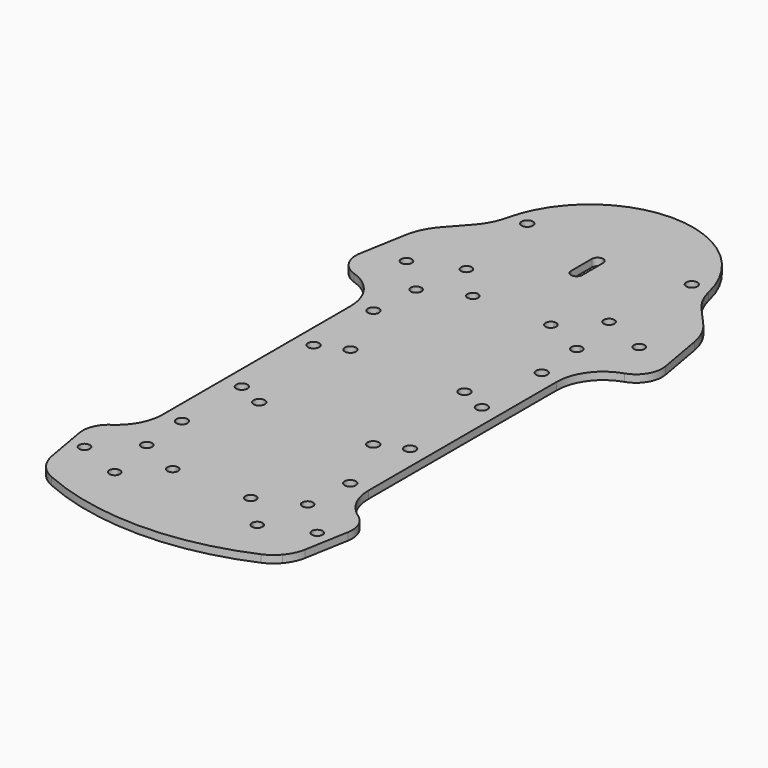
from build123d import *

# Parameters (mm, degrees)
F0_R     = 1.5
F0_R_2   = 1.425
F1_DEPTH = 2


with BuildPart() as f1:
    # F0 (on Top) → F1 (new body)
    with BuildSketch(Plane.XY):
        with BuildLine():
            Line((-8.8704294452, 161.8253589038), (-8.8704294452, 175.1948396463))
            Line((-8.8704294452, 175.1948396463), (-34.8704294452, 175.1948396463))
            Line((-34.8704294452, 175.1948396463), (-34.8704294452, 168.1948396463))
            ThreePointArc((-34.8704294452, 168.1948396463), (-35.3097692734, 167.1341794745), (-36.3704294452, 166.6948396463))
            ThreePointArc((-36.3704294452, 166.6948396463), (-37.431089617, 167.1341794745), (-37.8704294452, 168.1948396463))
            Line((-37.8704294452, 168.1948396463), (-37.8704294452, 175.1948396463))
            Line((-37.8704294452, 175.1948396463), (-63.8704294452, 175.1948396463))
            Line((-63.8704294452, 175.1948396463), (-63.8704294452, 161.8253589038))
            Line((-63.8704294452, 161.8253589038), (-39.2936274412, 157.9327758734))
            Line((-39.2936274412, 157.9327758734), (-43.6348318829, 133.3125820481))
            Line((-43.6348318829, 133.3125820481), (-63.8704294452, 137.2459837579))
            Line((-63.8704294452, 137.2459837579), (-63.8704294452, 127.0922727271))
            Line((-63.8704294452, 127.0922727271), (-63.8704294452, 96.4075311041))
            Line((-63.8704294452, 96.4075311041), (-63.8704294452, 64.2705092109))
            Line((-63.8704294452, 64.2705092109), (-63.8704294452, 55.5690784503))
            Line((-63.8704294452, 55.5690784503), (-43.6348318829, 59.50248016))
            Line((-43.6348318829, 59.50248016), (-39.2936274412, 34.8822863347))
            Line((-39.2936274412, 34.8822863347), (-63.8704294452, 30.9897033044))
            Line((-63.8704294452, 30.9897033044), (-63.8704294452, 29.6202225619))
            Line((-63.8704294452, 29.6202225619), (-8.8704294452, 29.6202225619))
            Line((-8.8704294452, 29.6202225619), (-8.8704294452, 30.9897033044))
            Line((-8.8704294452, 30.9897033044), (-33.4472314492, 34.8822863347))
            Line((-33.4472314492, 34.8822863347), (-29.1060270075, 59.50248016))
            Line((-29.1060270075, 59.50248016), (-8.8704294452, 55.5690784503))
            Line((-8.8704294452, 55.5690784503), (-8.8704294452, 64.2705092153))
            Line((-8.8704294452, 64.2705092153), (-8.8704294452, 127.0922727314))
            Line((-8.8704294452, 127.0922727314), (-8.8704294452, 137.2459837579))
            Line((-8.8704294452, 137.2459837579), (-29.1060270075, 133.3125820481))
            Line((-29.1060270075, 133.3125820481), (-33.4472314492, 157.9327758734))
            Line((-33.4472314492, 157.9327758734), (-8.8704294452, 161.8253589038))
        make_face()
        with Locations((-58.8704294452, 64.4075311041)):
            Circle(F0_R, mode=Mode.SUBTRACT)
        with Locations((-58.8704294452, 84.4075311041)):
            Circle(F0_R, mode=Mode.SUBTRACT)
        with Locations((-58.8704294452, 108.4075311041)):
            Circle(F0_R, mode=Mode.SUBTRACT)
        with Locations((-13.8704294452, 64.4075311041)):
            Circle(F0_R, mode=Mode.SUBTRACT)
        with Locations((-13.8704294452, 84.4075311041)):
            Circle(F0_R, mode=Mode.SUBTRACT)
        Polygon((-54.3704294452, 78.4075311041), (-54.3704294452, 96.4075311041), (-54.3704294452, 114.4075311041), (-18.3704294452, 114.4075311041), (-18.3704294452, 78.4075311041), align=None, mode=Mode.SUBTRACT)
        with Locations((-13.8704294452, 108.4075311041)):
            Circle(F0_R, mode=Mode.SUBTRACT)
        with Locations((-58.8704294452, 128.4075311041)):
            Circle(F0_R, mode=Mode.SUBTRACT)
        with Locations((-13.8704294452, 128.4075311041)):
            Circle(F0_R, mode=Mode.SUBTRACT)
        Polygon((-54.3704294452, 114.4075311041), (-54.3704294452, 96.4075311041), (-54.3704294452, 78.4075311041), (-18.3704294452, 78.4075311041), (-18.3704294452, 114.4075311041), align=None)
        with Locations((-51.6204294452, 81.1575311041)):
            Circle(F0_R, mode=Mode.SUBTRACT)
        with Locations((-21.1204294452, 81.1575311041)):
            Circle(F0_R, mode=Mode.SUBTRACT)
        with Locations((-51.6204294452, 111.6575311041)):
            Circle(F0_R, mode=Mode.SUBTRACT)
        with Locations((-21.1204294452, 111.6575311041)):
            Circle(F0_R, mode=Mode.SUBTRACT)
        with BuildLine():
            Line((-34.8704294452, 175.1948396463), (-8.8704294452, 175.1948396463))
            Line((-8.8704294452, 175.1948396463), (-8.8704294452, 161.8253589038))
            Line((-8.8704294452, 161.8253589038), (0.9368019551, 163.3786717603))
            ThreePointArc((0.9368019551, 163.3786717603), (-0.061460225, 165.0881544878), (-1.2761446038, 166.6512924971))
            Line((-1.2761446038, 166.6512924971), (-5.9962666248, 171.9614152906))
            ThreePointArc((-5.9962666248, 171.9614152906), (-8.1314997997, 175.0803787876), (-9.4192596721, 178.6340850949))
            ThreePointArc((-9.4192596721, 178.6340850949), (-36.3704294452, 200.1948396463), (-63.3215992183, 178.6340850949))
            ThreePointArc((-63.3215992183, 178.6340850949), (-64.6093590907, 175.0803787876), (-66.7445922656, 171.9614152906))
            Line((-66.7445922656, 171.9614152906), (-71.4647142866, 166.6512924971))
            ThreePointArc((-71.4647142866, 166.6512924971), (-72.6793986653, 165.0881544878), (-73.6776608454, 163.3786717603))
            Line((-73.6776608454, 163.3786717603), (-63.8704294452, 161.8253589038))
            Line((-63.8704294452, 161.8253589038), (-63.8704294452, 175.1948396463))
            Line((-63.8704294452, 175.1948396463), (-37.8704294452, 175.1948396463))
            ThreePointArc((-37.8704294452, 175.1948396463), (-36.3704294452, 176.6948396463), (-34.8704294452, 175.1948396463))
        make_face()
        with Locations((-58.3704294452, 179.1948396463)):
            Circle(F0_R, mode=Mode.SUBTRACT)
        with Locations((-14.3704294452, 179.1948396463)):
            Circle(F0_R, mode=Mode.SUBTRACT)
        Polygon((-39.2936274412, 157.9327758734), (-63.8704294452, 161.8253589038), (-63.8704294452, 149.5734792715), (-63.8704294452, 137.2459837579), (-43.6348318829, 133.3125820481), align=None)
        with BuildLine():
            Line((-57.622980792, 142.8108821521), (-56.6548922015, 148.3011853752))
            Line((-56.6548922015, 148.3011853752), (-55.686803611, 153.7914885982))
            ThreePointArc((-55.686803611, 153.7914885982), (-56.3553273017, 156.2864529777), (-54.0143549579, 155.1948396463))
            ThreePointArc((-54.0143549579, 155.1948396463), (-54.0197775131, 155.0706427128), (-54.0360039098, 154.9473909931))
            Line((-54.0360039098, 154.9473909931), (-46.9946284758, 153.7058065228))
            ThreePointArc((-46.9946284758, 153.7058065228), (-45.4670804943, 154.8779353144), (-44.1662774277, 153.4583578696))
            ThreePointArc((-44.1662774277, 153.4583578696), (-44.6753050839, 152.3667445381), (-45.8387260809, 152.0550068215))
            Line((-45.8387260809, 152.0550068215), (-46.5593660182, 147.9680546465))
            ThreePointArc((-46.5593660182, 147.9680546465), (-45.71520134, 147.4806759423), (-45.3818146714, 146.5647035985))
            ThreePointArc((-45.3818146714, 146.5647035985), (-45.8908423276, 145.4730902671), (-47.0542633246, 145.1613525505))
            Line((-47.0542633246, 145.1613525505), (-47.7749032619, 141.0744003755))
            ThreePointArc((-47.7749032619, 141.0744003755), (-46.9307385836, 140.5870216712), (-46.5973519151, 139.6710493274))
            ThreePointArc((-46.5973519151, 139.6710493274), (-48.1465488485, 138.2514718826), (-49.4257029631, 139.9184979806))
            Line((-49.4257029631, 139.9184979806), (-56.4670783971, 141.1600824509))
            ThreePointArc((-56.4670783971, 141.1600824509), (-59.0377211083, 140.5901846823), (-57.622980792, 142.8108821521))
        make_face(mode=Mode.SUBTRACT)
        Polygon((-8.8704294452, 137.2459837579), (-8.8704294452, 161.8253589038), (-33.4472314492, 157.9327758734), (-29.1060270075, 133.3125820481), align=None)
        with BuildLine():
            ThreePointArc((-26.9021328095, 152.0550068215), (-28.3168731258, 154.2757042914), (-25.7462304146, 153.7058065228))
            Line((-25.7462304146, 153.7058065228), (-18.7048549806, 154.9473909931))
            ThreePointArc((-18.7048549806, 154.9473909931), (-17.4257008659, 156.614417091), (-15.8765039325, 155.1948396463))
            ThreePointArc((-15.8765039325, 155.1948396463), (-16.2098906011, 154.2788673025), (-17.0540552794, 153.7914885982))
            Line((-17.0540552794, 153.7914885982), (-15.1178780984, 142.8108821521))
            ThreePointArc((-15.1178780984, 142.8108821521), (-13.9544571014, 142.4991444355), (-13.4454294452, 141.4075311041))
            ThreePointArc((-13.4454294452, 141.4075311041), (-14.7462325118, 139.9879536593), (-16.2737804932, 141.1600824509))
            Line((-16.2737804932, 141.1600824509), (-23.3151559273, 139.9184979806))
            ThreePointArc((-23.3151559273, 139.9184979806), (-23.2989295305, 139.7952462608), (-23.2935069753, 139.6710493274))
            ThreePointArc((-23.2935069753, 139.6710493274), (-25.6344793191, 138.579435996), (-24.9659556285, 141.0744003755))
            Line((-24.9659556285, 141.0744003755), (-25.6865955658, 145.1613525505))
            ThreePointArc((-25.6865955658, 145.1613525505), (-27.337395267, 146.3172549453), (-26.1814928722, 147.9680546465))
            Line((-26.1814928722, 147.9680546465), (-26.9021328095, 152.0550068215))
        make_face(mode=Mode.SUBTRACT)
        Polygon((-8.8704294452, 30.9897033044), (-8.8704294452, 55.5690784503), (-29.1060270075, 59.50248016), (-33.4472314492, 34.8822863347), align=None)
        with BuildLine():
            ThreePointArc((-23.2935069753, 53.1440128808), (-23.2989295305, 53.0198159473), (-23.3151559273, 52.8965642276))
            Line((-23.3151559273, 52.8965642276), (-16.2737804932, 51.6549797573))
            ThreePointArc((-16.2737804932, 51.6549797573), (-14.7462325118, 52.8271085489), (-13.4454294452, 51.4075311041))
            ThreePointArc((-13.4454294452, 51.4075311041), (-13.9544571014, 50.3159177726), (-15.1178780984, 50.004180056))
            Line((-15.1178780984, 50.004180056), (-17.0540552793, 39.02357361))
            ThreePointArc((-17.0540552793, 39.02357361), (-16.2098906011, 38.5361949057), (-15.8765039325, 37.6202225619))
            ThreePointArc((-15.8765039325, 37.6202225619), (-17.4257008659, 36.2006451171), (-18.7048549806, 37.8676712151))
            Line((-18.7048549806, 37.8676712151), (-25.7462304146, 39.1092556854))
            ThreePointArc((-25.7462304146, 39.1092556854), (-28.3168731258, 38.5393579168), (-26.9021328095, 40.7600553866))
            Line((-26.9021328095, 40.7600553866), (-26.1814928722, 44.8470075616))
            ThreePointArc((-26.1814928722, 44.8470075616), (-27.337395267, 46.4978072629), (-25.6865955658, 47.6537096577))
            Line((-25.6865955658, 47.6537096577), (-24.9659556285, 51.7406618327))
            ThreePointArc((-24.9659556285, 51.7406618327), (-25.6344793191, 54.2356262122), (-23.2935069753, 53.1440128808))
        make_face(mode=Mode.SUBTRACT)
        Polygon((-63.8704294452, 55.5690784503), (-63.8704294452, 30.9897033044), (-39.2936274412, 34.8822863347), (-43.6348318829, 59.50248016), align=None)
        with BuildLine():
            ThreePointArc((-57.622980792, 50.004180056), (-59.0377211083, 52.2248775259), (-56.4670783971, 51.6549797573))
            Line((-56.4670783971, 51.6549797573), (-49.4257029631, 52.8965642276))
            ThreePointArc((-49.4257029631, 52.8965642276), (-48.1465488485, 54.5635903255), (-46.5973519151, 53.1440128808))
            ThreePointArc((-46.5973519151, 53.1440128808), (-46.9307385836, 52.228040537), (-47.7749032619, 51.7406618327))
            Line((-47.7749032619, 51.7406618327), (-47.0542633246, 47.6537096577))
            ThreePointArc((-47.0542633246, 47.6537096577), (-45.8908423276, 47.3419719411), (-45.3818146714, 46.2503586097))
            ThreePointArc((-45.3818146714, 46.2503586097), (-45.71520134, 45.3343862659), (-46.5593660182, 44.8470075616))
            Line((-46.5593660182, 44.8470075616), (-45.8387260809, 40.7600553866))
            ThreePointArc((-45.8387260809, 40.7600553866), (-44.6753050839, 40.44831767), (-44.1662774277, 39.3567043386))
            ThreePointArc((-44.1662774277, 39.3567043386), (-45.4670804943, 37.9371268938), (-46.9946284758, 39.1092556854))
            Line((-46.9946284758, 39.1092556854), (-54.0360039098, 37.8676712151))
            ThreePointArc((-54.0360039098, 37.8676712151), (-54.0197775131, 37.7444194953), (-54.0143549579, 37.6202225619))
            ThreePointArc((-54.0143549579, 37.6202225619), (-56.3553273017, 36.5286092305), (-55.686803611, 39.02357361))
            Line((-55.686803611, 39.02357361), (-57.622980792, 50.004180056))
        make_face(mode=Mode.SUBTRACT)
        with BuildLine():
            Line((-4.7892278158, 30.3433044684), (-8.8704294452, 30.9897033044))
            Line((-8.8704294452, 30.9897033044), (-8.8704294452, 29.6202225619))
            Line((-8.8704294452, 29.6202225619), (-63.8704294452, 29.6202225619))
            Line((-63.8704294452, 29.6202225619), (-63.8704294452, 30.9897033044))
            Line((-63.8704294452, 30.9897033044), (-67.9516310746, 30.3433044684))
            ThreePointArc((-67.9516310746, 30.3433044684), (-66.3173713875, 28.8317131301), (-64.3891954535, 27.7191257554))
            ThreePointArc((-64.3891954535, 27.7191257554), (-36.3704294452, 21.8669920596), (-8.3516634369, 27.7191257554))
            ThreePointArc((-8.3516634369, 27.7191257554), (-6.4234875029, 28.8317131301), (-4.7892278158, 30.3433044684))
        make_face()
        with BuildLine():
            Line((0.9368019551, 163.3786717603), (-8.8704294452, 161.8253589038))
            Line((-8.8704294452, 161.8253589038), (-8.8704294452, 137.2459837579))
            Line((-8.8704294452, 137.2459837579), (-1.0790833827, 138.7604680141))
            ThreePointArc((-1.0790833827, 138.7604680141), (-0.6587086155, 138.855699248), (-0.2449918809, 138.9766223488))
            ThreePointArc((-0.2449918809, 138.9766223488), (3.5872210074, 142.0295829289), (4.4789079207, 146.8473955419))
            Line((4.4789079207, 146.8473955419), (2.2848454049, 159.2905423993))
            ThreePointArc((2.2848454049, 159.2905423993), (1.7582361533, 161.3832157224), (0.9368019551, 163.3786717603))
        make_face()
        with Locations((-5.2530814057, 150.2113153295)):
            Circle(F0_R_2, mode=Mode.SUBTRACT)
        with BuildLine():
            Line((0.9368019551, 163.3786717603), (-8.8704294452, 161.8253589038))
            Line((-8.8704294452, 161.8253589038), (-8.8704294452, 137.2459837579))
            Line((-8.8704294452, 137.2459837579), (-1.0790833827, 138.7604680141))
            ThreePointArc((-1.0790833827, 138.7604680141), (-0.6587086155, 138.855699248), (-0.2449918809, 138.9766223488))
            ThreePointArc((-0.2449918809, 138.9766223488), (3.5872210074, 142.0295829289), (4.4789079207, 146.8473955419))
            Line((4.4789079207, 146.8473955419), (2.2848454049, 159.2905423993))
            ThreePointArc((2.2848454049, 159.2905423993), (1.7582361533, 161.3832157224), (0.9368019551, 163.3786717603))
        make_face()
        with Locations((-5.2530814057, 150.2113153295)):
            Circle(F0_R_2, mode=Mode.SUBTRACT)
        with BuildLine():
            Line((-63.8704294452, 149.5734792715), (-63.8704294452, 161.8253589038))
            Line((-63.8704294452, 161.8253589038), (-73.6776608454, 163.3786717603))
            ThreePointArc((-73.6776608454, 163.3786717603), (-74.4990950437, 161.3832157224), (-75.0257042953, 159.2905423993))
            Line((-75.0257042953, 159.2905423993), (-77.2197668111, 146.8473955419))
            ThreePointArc((-77.2197668111, 146.8473955419), (-76.3280798978, 142.0295829289), (-72.4958670095, 138.9766223488))
            ThreePointArc((-72.4958670095, 138.9766223488), (-72.0821502749, 138.855699248), (-71.6617755077, 138.7604680141))
            Line((-71.6617755077, 138.7604680141), (-63.8704294452, 137.2459837579))
            Line((-63.8704294452, 137.2459837579), (-63.8704294452, 149.5734792715))
        make_face()
        with BuildLine():
            ThreePointArc((-66.0627774847, 150.2113153295), (-66.0682000399, 150.0871183961), (-66.0844264366, 149.9638666763))
            ThreePointArc((-66.0844264366, 149.9638666763), (-68.9073549294, 150.3355122629), (-66.0627774847, 150.2113153295))
        make_face(mode=Mode.SUBTRACT)
        with BuildLine():
            Line((-63.8704294452, 149.5734792715), (-63.8704294452, 161.8253589038))
            Line((-63.8704294452, 161.8253589038), (-73.6776608454, 163.3786717603))
            ThreePointArc((-73.6776608454, 163.3786717603), (-74.4990950437, 161.3832157224), (-75.0257042953, 159.2905423993))
            Line((-75.0257042953, 159.2905423993), (-77.2197668111, 146.8473955419))
            ThreePointArc((-77.2197668111, 146.8473955419), (-76.3280798978, 142.0295829289), (-72.4958670095, 138.9766223488))
            ThreePointArc((-72.4958670095, 138.9766223488), (-72.0821502749, 138.855699248), (-71.6617755077, 138.7604680141))
            Line((-71.6617755077, 138.7604680141), (-63.8704294452, 137.2459837579))
            Line((-63.8704294452, 137.2459837579), (-63.8704294452, 149.5734792715))
        make_face()
        with BuildLine():
            ThreePointArc((-66.0627774847, 150.2113153295), (-66.0682000399, 150.0871183961), (-66.0844264366, 149.9638666763))
            ThreePointArc((-66.0844264366, 149.9638666763), (-68.9073549294, 150.3355122629), (-66.0627774847, 150.2113153295))
        make_face(mode=Mode.SUBTRACT)
        with BuildLine():
            Line((-5.9879669467, 55.0087844988), (-8.8704294452, 55.5690784503))
            Line((-8.8704294452, 55.5690784503), (-8.8704294452, 30.9897033044))
            Line((-8.8704294452, 30.9897033044), (-4.7892278158, 30.3433044684))
            ThreePointArc((-4.7892278158, 30.3433044684), (-3.3225779593, 32.5904155591), (-2.5062667651, 35.1466248793))
            Line((-2.5062667651, 35.1466248793), (-0.4299756432, 46.921856971))
            ThreePointArc((-0.4299756432, 46.921856971), (-0.8759591868, 50.8627459699), (-3.3917118033, 53.9287688328))
            ThreePointArc((-3.3917118033, 53.9287688328), (-4.6350501657, 54.6004847242), (-5.9879669467, 55.0087844988))
        make_face()
        with Locations((-5.2530814057, 42.6037468787)):
            Circle(F0_R_2, mode=Mode.SUBTRACT)
        with BuildLine():
            Line((-67.9516310746, 30.3433044684), (-63.8704294452, 30.9897033044))
            Line((-63.8704294452, 30.9897033044), (-63.8704294452, 55.5690784503))
            Line((-63.8704294452, 55.5690784503), (-66.7528919437, 55.0087844988))
            ThreePointArc((-66.7528919437, 55.0087844988), (-68.1058087247, 54.6004847242), (-69.3491470871, 53.9287688328))
            ThreePointArc((-69.3491470871, 53.9287688328), (-71.8648997035, 50.8627459699), (-72.3108832471, 46.921856971))
            Line((-72.3108832471, 46.921856971), (-70.2345921253, 35.1466248793))
            ThreePointArc((-70.2345921253, 35.1466248793), (-69.418280931, 32.5904155591), (-67.9516310746, 30.3433044684))
        make_face()
        with Locations((-67.4877774847, 42.6037468787)):
            Circle(F0_R_2, mode=Mode.SUBTRACT)
        with BuildLine():
            Line((-55.686803611, 153.7914885982), (-56.6548922015, 148.3011853752))
            Line((-56.6548922015, 148.3011853752), (-57.622980792, 142.8108821521))
            ThreePointArc((-57.622980792, 142.8108821521), (-56.7788161137, 142.3235034479), (-56.4454294452, 141.4075311041))
            ThreePointArc((-56.4454294452, 141.4075311041), (-56.4508520004, 141.2833341707), (-56.4670783971, 141.1600824509))
            Line((-56.4670783971, 141.1600824509), (-49.4257029631, 139.9184979806))
            ThreePointArc((-49.4257029631, 139.9184979806), (-48.8396983369, 140.8383409905), (-47.7749032619, 141.0744003755))
            Line((-47.7749032619, 141.0744003755), (-47.0542633246, 145.1613525505))
            ThreePointArc((-47.0542633246, 145.1613525505), (-48.2101657194, 146.8121522517), (-46.5593660182, 147.9680546465))
            Line((-46.5593660182, 147.9680546465), (-45.8387260809, 152.0550068215))
            ThreePointArc((-45.8387260809, 152.0550068215), (-46.7585690908, 152.6410114478), (-46.9946284758, 153.7058065228))
            Line((-46.9946284758, 153.7058065228), (-54.0360039098, 154.9473909931))
            ThreePointArc((-54.0360039098, 154.9473909931), (-54.6220085361, 154.0275479831), (-55.686803611, 153.7914885982))
        make_face()
        with BuildLine():
            Line((-18.7048549806, 154.9473909931), (-25.7462304146, 153.7058065228))
            ThreePointArc((-25.7462304146, 153.7058065228), (-25.7300040179, 153.582554803), (-25.7245814626, 153.4583578696))
            ThreePointArc((-25.7245814626, 153.4583578696), (-26.0579681312, 152.5423855258), (-26.9021328095, 152.0550068215))
            Line((-26.9021328095, 152.0550068215), (-26.1814928722, 147.9680546465))
            ThreePointArc((-26.1814928722, 147.9680546465), (-25.0180718752, 147.6563169299), (-24.509044219, 146.5647035985))
            ThreePointArc((-24.509044219, 146.5647035985), (-24.8424308875, 145.6487312547), (-25.6865955658, 145.1613525505))
            Line((-25.6865955658, 145.1613525505), (-24.9659556285, 141.0744003755))
            ThreePointArc((-24.9659556285, 141.0744003755), (-23.9011605535, 140.8383409905), (-23.3151559273, 139.9184979806))
            Line((-23.3151559273, 139.9184979806), (-16.2737804932, 141.1600824509))
            ThreePointArc((-16.2737804932, 141.1600824509), (-16.0377211083, 142.2248775259), (-15.1178780984, 142.8108821521))
            Line((-15.1178780984, 142.8108821521), (-17.0540552794, 153.7914885982))
            ThreePointArc((-17.0540552794, 153.7914885982), (-18.1188503543, 154.0275479831), (-18.7048549806, 154.9473909931))
        make_face()
        with BuildLine():
            Line((-49.4257029631, 52.8965642276), (-56.4670783971, 51.6549797573))
            ThreePointArc((-56.4670783971, 51.6549797573), (-56.4508520004, 51.5317280375), (-56.4454294452, 51.4075311041))
            ThreePointArc((-56.4454294452, 51.4075311041), (-56.7788161137, 50.4915587603), (-57.622980792, 50.004180056))
            Line((-57.622980792, 50.004180056), (-55.686803611, 39.02357361))
            ThreePointArc((-55.686803611, 39.02357361), (-54.6220085361, 38.787514225), (-54.0360039098, 37.8676712151))
            Line((-54.0360039098, 37.8676712151), (-46.9946284758, 39.1092556854))
            ThreePointArc((-46.9946284758, 39.1092556854), (-46.7585690908, 40.1740507604), (-45.8387260809, 40.7600553866))
            Line((-45.8387260809, 40.7600553866), (-46.5593660182, 44.8470075616))
            ThreePointArc((-46.5593660182, 44.8470075616), (-48.2101657194, 46.0029099565), (-47.0542633246, 47.6537096577))
            Line((-47.0542633246, 47.6537096577), (-47.7749032619, 51.7406618327))
            ThreePointArc((-47.7749032619, 51.7406618327), (-48.8396983369, 51.9767212176), (-49.4257029631, 52.8965642276))
        make_face()
        with BuildLine():
            Line((-16.2737804932, 51.6549797573), (-23.3151559273, 52.8965642276))
            ThreePointArc((-23.3151559273, 52.8965642276), (-23.9011605535, 51.9767212176), (-24.9659556285, 51.7406618327))
            Line((-24.9659556285, 51.7406618327), (-25.6865955658, 47.6537096577))
            ThreePointArc((-25.6865955658, 47.6537096577), (-24.8424308875, 47.1663309535), (-24.509044219, 46.2503586097))
            ThreePointArc((-24.509044219, 46.2503586097), (-25.0180718752, 45.1587452782), (-26.1814928722, 44.8470075616))
            Line((-26.1814928722, 44.8470075616), (-26.9021328095, 40.7600553866))
            ThreePointArc((-26.9021328095, 40.7600553866), (-26.0579681312, 40.2726766824), (-25.7245814626, 39.3567043386))
            ThreePointArc((-25.7245814626, 39.3567043386), (-25.7300040179, 39.2325074052), (-25.7462304146, 39.1092556854))
            Line((-25.7462304146, 39.1092556854), (-18.7048549806, 37.8676712151))
            ThreePointArc((-18.7048549806, 37.8676712151), (-18.1188503543, 38.787514225), (-17.0540552793, 39.02357361))
            Line((-17.0540552793, 39.02357361), (-15.1178780984, 50.004180056))
            ThreePointArc((-15.1178780984, 50.004180056), (-16.0377211083, 50.5901846823), (-16.2737804932, 51.6549797573))
        make_face()
        with BuildLine():
            Line((-1.0790833827, 138.7604680141), (-8.8704294452, 137.2459837579))
            Line((-8.8704294452, 137.2459837579), (-8.8704294452, 127.0922727314))
            ThreePointArc((-8.8704294452, 127.0922727314), (-6.4868030641, 134.434546544), (-0.2449918809, 138.9766223488))
            ThreePointArc((-0.2449918809, 138.9766223488), (-0.6587086155, 138.855699248), (-1.0790833827, 138.7604680141))
        make_face()
        with BuildLine():
            Line((-63.8704294452, 127.0922727271), (-63.8704294452, 137.2459837579))
            Line((-63.8704294452, 137.2459837579), (-71.6617755077, 138.7604680141))
            ThreePointArc((-71.6617755077, 138.7604680141), (-72.0821502749, 138.855699248), (-72.4958670095, 138.9766223488))
            ThreePointArc((-72.4958670095, 138.9766223488), (-66.254055825, 134.4345465422), (-63.8704294452, 127.0922727271))
        make_face()
        with BuildLine():
            ThreePointArc((-3.3917118033, 53.9287688328), (-7.4161532676, 58.4188440428), (-8.8704294452, 64.2705092153))
            Line((-8.8704294452, 64.2705092153), (-8.8704294452, 55.5690784503))
            Line((-8.8704294452, 55.5690784503), (-5.9879669467, 55.0087844988))
            ThreePointArc((-5.9879669467, 55.0087844988), (-4.6350501657, 54.6004847242), (-3.3917118033, 53.9287688328))
        make_face()
        with BuildLine():
            Line((-63.8704294452, 55.5690784503), (-63.8704294452, 64.2705092109))
            ThreePointArc((-63.8704294452, 64.2705092109), (-65.3247056238, 58.4188440409), (-69.3491470871, 53.9287688328))
            ThreePointArc((-69.3491470871, 53.9287688328), (-68.1058087247, 54.6004847242), (-66.7528919437, 55.0087844988))
            Line((-66.7528919437, 55.0087844988), (-63.8704294452, 55.5690784503))
        make_face()
        with BuildLine():
            ThreePointArc((-44.1662774277, 153.4583578696), (-45.4670804943, 154.8779353144), (-46.9946284758, 153.7058065228))
            Line((-46.9946284758, 153.7058065228), (-45.5912774277, 153.4583578696))
            Line((-45.5912774277, 153.4583578696), (-45.8387260809, 152.0550068215))
            ThreePointArc((-45.8387260809, 152.0550068215), (-44.6753050839, 152.3667445381), (-44.1662774277, 153.4583578696))
        make_face()
        with BuildLine():
            Line((-48.0223519151, 139.6710493274), (-49.4257029631, 139.9184979806))
            ThreePointArc((-49.4257029631, 139.9184979806), (-48.1465488485, 138.2514718826), (-46.5973519151, 139.6710493274))
            ThreePointArc((-46.5973519151, 139.6710493274), (-46.9307385836, 140.5870216712), (-47.7749032619, 141.0744003755))
            Line((-47.7749032619, 141.0744003755), (-48.0223519151, 139.6710493274))
        make_face()
        with BuildLine():
            Line((-26.9021328095, 152.0550068215), (-27.1495814626, 153.4583578696))
            Line((-27.1495814626, 153.4583578696), (-25.7462304146, 153.7058065228))
            ThreePointArc((-25.7462304146, 153.7058065228), (-28.3168731258, 154.2757042914), (-26.9021328095, 152.0550068215))
        make_face()
        with BuildLine():
            Line((-24.7185069753, 139.6710493274), (-24.9659556285, 141.0744003755))
            ThreePointArc((-24.9659556285, 141.0744003755), (-25.6344793191, 138.579435996), (-23.2935069753, 139.6710493274))
            ThreePointArc((-23.2935069753, 139.6710493274), (-23.2989295305, 139.7952462608), (-23.3151559273, 139.9184979806))
            Line((-23.3151559273, 139.9184979806), (-24.7185069753, 139.6710493274))
        make_face()
        with BuildLine():
            ThreePointArc((-46.5973519151, 53.1440128808), (-48.1465488485, 54.5635903255), (-49.4257029631, 52.8965642276))
            Line((-49.4257029631, 52.8965642276), (-48.0223519151, 53.1440128808))
            Line((-48.0223519151, 53.1440128808), (-47.7749032619, 51.7406618327))
            ThreePointArc((-47.7749032619, 51.7406618327), (-46.9307385836, 52.228040537), (-46.5973519151, 53.1440128808))
        make_face()
        with BuildLine():
            Line((-45.5912774277, 39.3567043386), (-46.9946284758, 39.1092556854))
            ThreePointArc((-46.9946284758, 39.1092556854), (-45.4670804943, 37.9371268938), (-44.1662774277, 39.3567043386))
            ThreePointArc((-44.1662774277, 39.3567043386), (-44.6753050839, 40.44831767), (-45.8387260809, 40.7600553866))
            Line((-45.8387260809, 40.7600553866), (-45.5912774277, 39.3567043386))
        make_face()
        with BuildLine():
            Line((-24.9659556285, 51.7406618327), (-24.7185069753, 53.1440128808))
            Line((-24.7185069753, 53.1440128808), (-23.3151559273, 52.8965642276))
            ThreePointArc((-23.3151559273, 52.8965642276), (-23.2989295305, 53.0198159473), (-23.2935069753, 53.1440128808))
            ThreePointArc((-23.2935069753, 53.1440128808), (-25.6344793191, 54.2356262122), (-24.9659556285, 51.7406618327))
        make_face()
        with BuildLine():
            Line((-27.1495814626, 39.3567043386), (-26.9021328095, 40.7600553866))
            ThreePointArc((-26.9021328095, 40.7600553866), (-28.3168731258, 38.5393579168), (-25.7462304146, 39.1092556854))
            Line((-25.7462304146, 39.1092556854), (-27.1495814626, 39.3567043386))
        make_face()
        with BuildLine():
            Line((-45.5912774277, 153.4583578696), (-46.9946284758, 153.7058065228))
            ThreePointArc((-46.9946284758, 153.7058065228), (-46.7585690908, 152.6410114478), (-45.8387260809, 152.0550068215))
            Line((-45.8387260809, 152.0550068215), (-45.5912774277, 153.4583578696))
        make_face()
        with BuildLine():
            ThreePointArc((-47.7749032619, 141.0744003755), (-48.8396983369, 140.8383409905), (-49.4257029631, 139.9184979806))
            Line((-49.4257029631, 139.9184979806), (-48.0223519151, 139.6710493274))
            Line((-48.0223519151, 139.6710493274), (-47.7749032619, 141.0744003755))
        make_face()
        with BuildLine():
            Line((-25.7462304146, 153.7058065228), (-27.1495814626, 153.4583578696))
            Line((-27.1495814626, 153.4583578696), (-26.9021328095, 152.0550068215))
            ThreePointArc((-26.9021328095, 152.0550068215), (-26.0579681312, 152.5423855258), (-25.7245814626, 153.4583578696))
            ThreePointArc((-25.7245814626, 153.4583578696), (-25.7300040179, 153.582554803), (-25.7462304146, 153.7058065228))
        make_face()
        with BuildLine():
            ThreePointArc((-23.3151559273, 139.9184979806), (-23.9011605535, 140.8383409905), (-24.9659556285, 141.0744003755))
            Line((-24.9659556285, 141.0744003755), (-24.7185069753, 139.6710493274))
            Line((-24.7185069753, 139.6710493274), (-23.3151559273, 139.9184979806))
        make_face()
        with BuildLine():
            Line((-48.0223519151, 53.1440128808), (-49.4257029631, 52.8965642276))
            ThreePointArc((-49.4257029631, 52.8965642276), (-48.8396983369, 51.9767212176), (-47.7749032619, 51.7406618327))
            Line((-47.7749032619, 51.7406618327), (-48.0223519151, 53.1440128808))
        make_face()
        with BuildLine():
            ThreePointArc((-45.8387260809, 40.7600553866), (-46.7585690908, 40.1740507604), (-46.9946284758, 39.1092556854))
            Line((-46.9946284758, 39.1092556854), (-45.5912774277, 39.3567043386))
            Line((-45.5912774277, 39.3567043386), (-45.8387260809, 40.7600553866))
        make_face()
        with BuildLine():
            Line((-23.3151559273, 52.8965642276), (-24.7185069753, 53.1440128808))
            Line((-24.7185069753, 53.1440128808), (-24.9659556285, 51.7406618327))
            ThreePointArc((-24.9659556285, 51.7406618327), (-23.9011605535, 51.9767212176), (-23.3151559273, 52.8965642276))
        make_face()
        with BuildLine():
            ThreePointArc((-25.7245814626, 39.3567043386), (-26.0579681312, 40.2726766824), (-26.9021328095, 40.7600553866))
            Line((-26.9021328095, 40.7600553866), (-27.1495814626, 39.3567043386))
            Line((-27.1495814626, 39.3567043386), (-25.7462304146, 39.1092556854))
            ThreePointArc((-25.7462304146, 39.1092556854), (-25.7300040179, 39.2325074052), (-25.7245814626, 39.3567043386))
        make_face()
    extrude(amount=F1_DEPTH)


solid = f1.part
